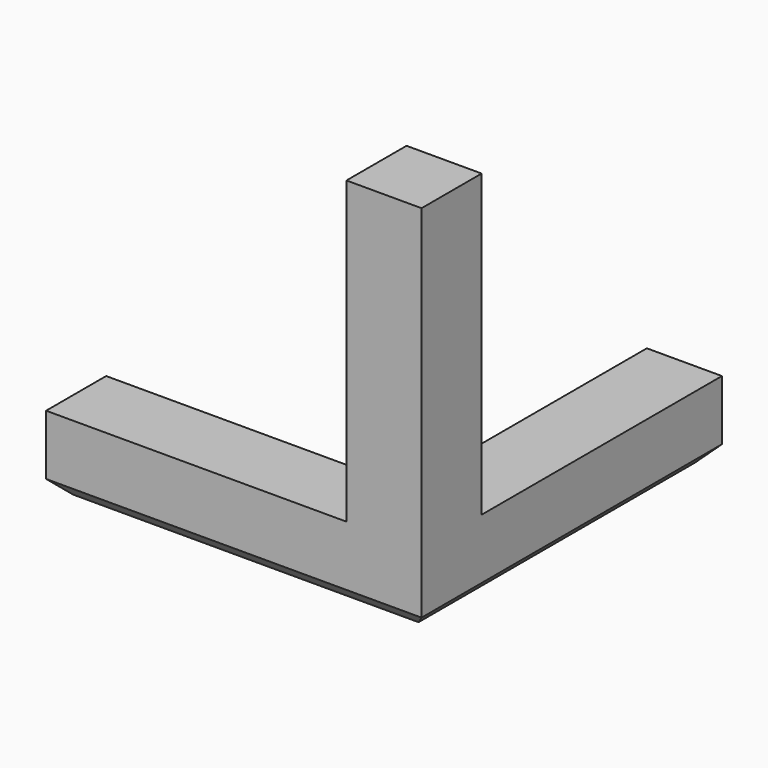
from build123d import *

# Parameters (mm, degrees)
F1_DEPTH = 5
F2_W     = 5
F2_H     = 5
F3_DEPTH = 20
F4_SIZE  = 1


with BuildPart() as f1:
    # F0 (on Top) → F1 (new body)
    with BuildSketch(Plane.XY):
        Polygon((-25, 0), (0, 0), (0, 25), (-5, 25), (-5, 5), (-25, 5), align=None)
    extrude(amount=F1_DEPTH)

    # F2 (on face) → F3 (join)
    with BuildSketch(Plane.XY.offset(5)):
        with Locations((-2.5, 2.5)):
            Rectangle(F2_W, F2_H)
    extrude(amount=F3_DEPTH)

    # F4
    f4_edges = [f1.edges().sort_by_distance(p)[0] for p in [
        (-12.5, 0, 0),
        (0, 12.5, 0),
        (-2.5, 25, 0),
        (-5, 15, 0),
        (-15, 5, 0),
        (-25, 2.5, 0),
    ]]
    chamfer(f4_edges, length=F4_SIZE)


solid = f1.part
